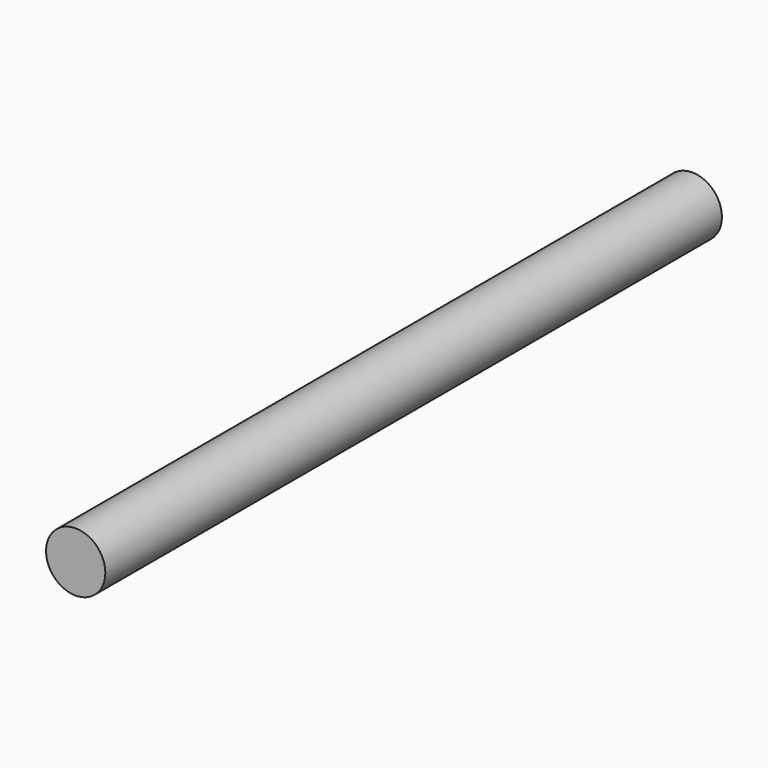
from build123d import *

# Parameters (mm, degrees)
F0_R     = 12.7
F1_DEPTH = 508
F2_DEPTH = 127
F3_DEPTH = 50.8


with BuildPart() as f1:
    # F0 (on Front) → F1 (new body)
    with BuildSketch(Plane.XZ):
        with Locations((0, -3.2373953145)):
            Circle(F0_R)
    extrude(amount=F1_DEPTH)

    # F2 (cut): a face of the model
    f2_faces = [f1.faces().sort_by_distance(p)[0] for p in [
        (0, -508, -3.2373953145),
    ]]
    extrude(f2_faces, amount=-F2_DEPTH, mode=Mode.SUBTRACT)

    # F3 (cut): a face of the model
    f3_faces = [f1.faces().sort_by_distance(p)[0] for p in [
        (0, -381, -3.2373953145),
    ]]
    extrude(f3_faces, amount=-F3_DEPTH, mode=Mode.SUBTRACT)


solid = f1.part
